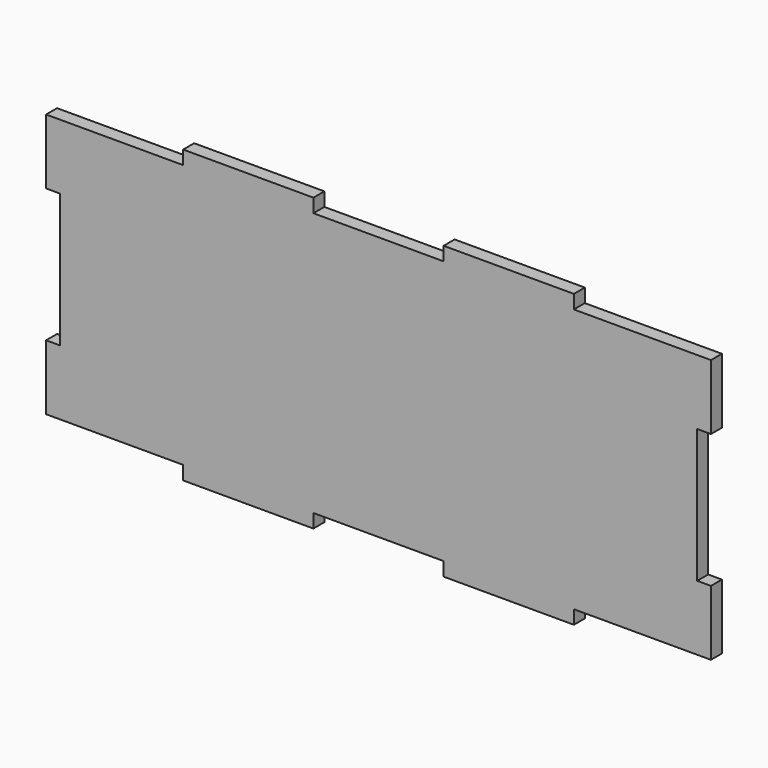
from build123d import *

# Parameters (mm, degrees)
F1_DEPTH = 4


with BuildPart() as f1:
    # F0 (on Front) → F1 (new body)
    with BuildSketch(Plane.XZ):
        Polygon((40, 4), (40, 0), (78, 0), (78, 4), (116, 4), (116, 0), (154, 0), (154, 4), (194, 4), (194, 23), (190, 23), (190, 62), (194, 62), (194, 81), (154, 81), (154, 85), (116, 85), (116, 81), (78, 81), (78, 85), (40, 85), (40, 81), (0, 81), (0, 62), (4, 62), (4, 23), (0, 23), (0, 4), align=None)
    extrude(amount=F1_DEPTH)


solid = f1.part
